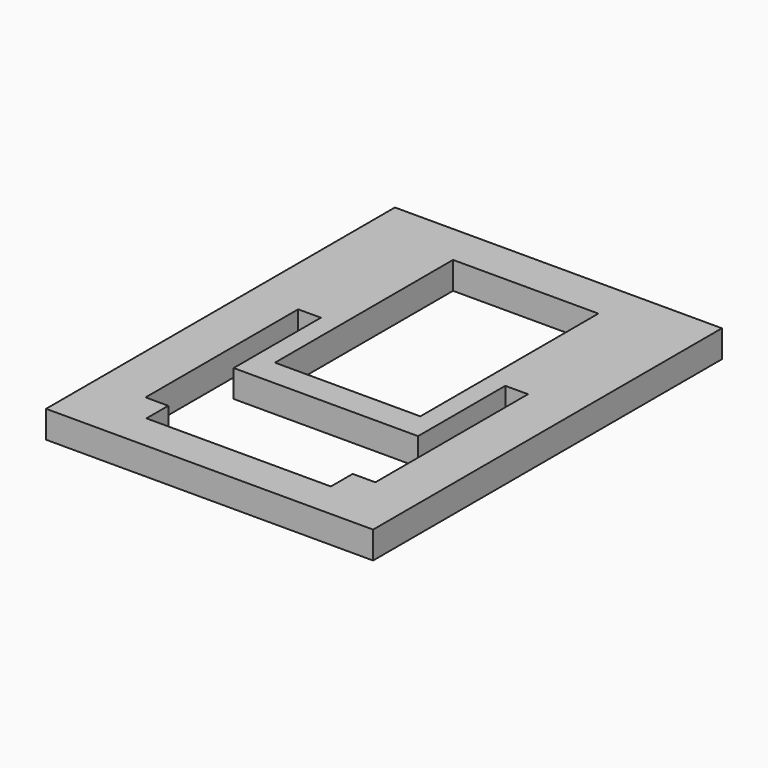
from build123d import *

# Parameters (mm, degrees)
SKETCH_W   = 36
SKETCH_H   = 48
SKETCH_W_2 = 16
SKETCH_H_2 = 24.5
PAD_DEPTH  = 3


with BuildPart() as part:
    # Sketch → Pad (new body)
    with BuildSketch(Plane.XY):
        Rectangle(SKETCH_W, SKETCH_H)
        Polygon((-12.65, 4), (-10.15, 4), (-10.15, -8), (10.15, -8), (10.15, 4), (12.65, 4), (12.65, -17), (10.15, -17), (10.15, -20), (-10.15, -20), (-10.15, -17), (-12.65, -17), align=None, mode=Mode.SUBTRACT)
        with Locations((0, 7.25)):
            Rectangle(SKETCH_W_2, SKETCH_H_2, mode=Mode.SUBTRACT)
    extrude(amount=PAD_DEPTH)


solid = part.part
